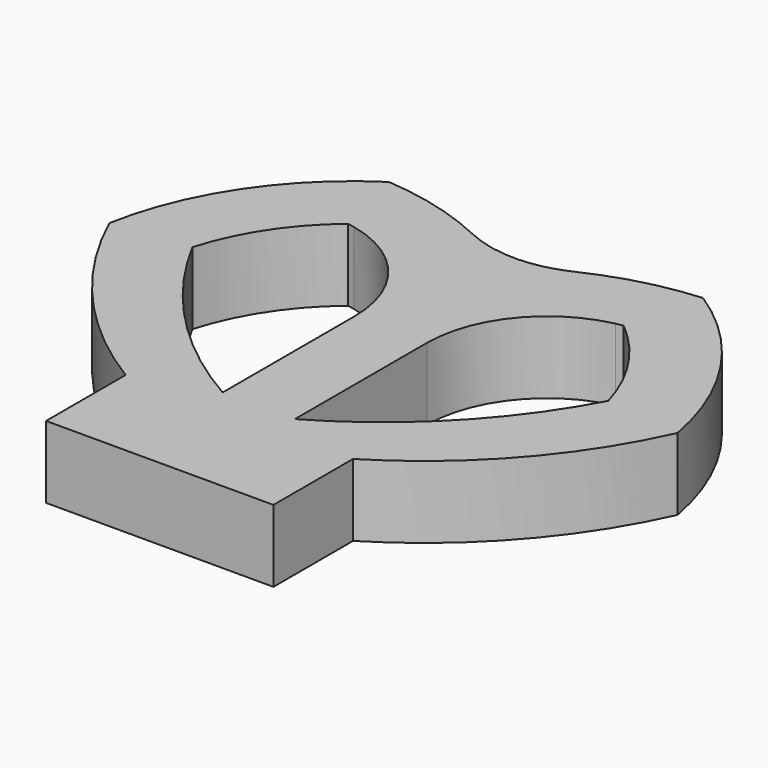
from build123d import *

# Parameters (mm, degrees)
F1_DEPTH = 0.3
F2_R     = 0.5


with BuildPart() as f1:
    # F0 (on Top) → F1 (new body)
    with BuildSketch(Plane.XY):
        with BuildLine():
            ThreePointArc((0, 0.762961), (-0.308997, 0.931484), (-0.652786, 1.006912))
            ThreePointArc((-0.652786, 1.006912), (-0.99881, 0.665116), (-1.180754, 0.214058))
            ThreePointArc((-1.180754, 0.214058), (-0.886964, -0.239644), (-0.472482, -0.586577))
            Line((-0.472482, -0.586577), (-0.472482, -1))
            Line((-0.472482, -1), (0, -1))
            Line((0, -1), (0.472482, -1))
            Line((0.472482, -1), (0.472482, -0.586577))
            ThreePointArc((0.472482, -0.586577), (0.886964, -0.239644), (1.180754, 0.214058))
            ThreePointArc((1.180754, 0.214058), (0.99881, 0.665116), (0.652786, 1.006912))
            ThreePointArc((0.652786, 1.006912), (0.308997, 0.931484), (0, 0.762961))
        make_face()
        with BuildLine():
            ThreePointArc((-0.572934, 0.69408), (-0.558038, 0.691525), (-0.543227, 0.688521))
            ThreePointArc((-0.543227, 0.688521), (-0.260522, 0.513594), (-0.15, 0.200055))
            Line((-0.15, 0.200055), (-0.15, -0.485534))
            ThreePointArc((-0.15, -0.485534), (-0.559315, -0.168131), (-0.864466, 0.250398))
            ThreePointArc((-0.864466, 0.250398), (-0.752159, 0.494224), (-0.572934, 0.69408))
        make_face(mode=Mode.SUBTRACT)
        with BuildLine():
            ThreePointArc((0.15, 0.200055), (0.260522, 0.513594), (0.543227, 0.688521))
            ThreePointArc((0.543227, 0.688521), (0.558038, 0.691525), (0.572934, 0.69408))
            ThreePointArc((0.572934, 0.69408), (0.752159, 0.494224), (0.864466, 0.250398))
            ThreePointArc((0.864466, 0.250398), (0.559315, -0.168131), (0.15, -0.485534))
            Line((0.15, -0.485534), (0.15, 0.200055))
        make_face(mode=Mode.SUBTRACT)
    extrude(amount=F1_DEPTH)

    # F2
    f2_edges = [f1.edges().sort_by_distance(p)[0] for p in [
        (0, 0.762961, 0.15),
    ]]
    fillet(f2_edges, radius=F2_R)


solid = f1.part
